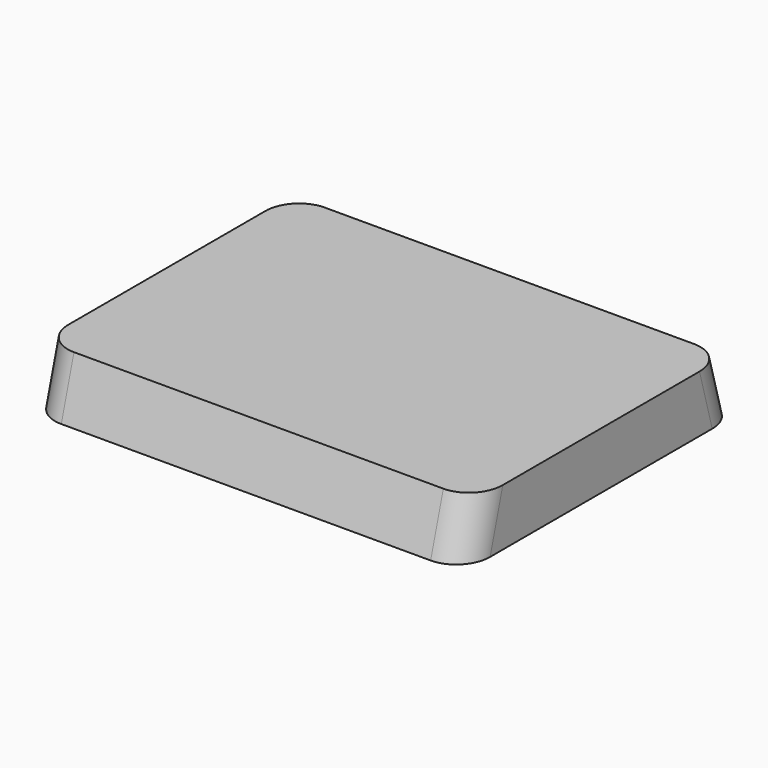
from build123d import *

# Parameters (mm, degrees)
F2_DEPTH = 26.75
F3_R     = 4


with BuildPart() as f2:
    # F1 (on Right) → F2 (new body, symmetric)
    with BuildSketch(Plane.YZ):
        Polygon((-19.3, 7), (-21.25, 0), (21.25, 0), (19.3, 7), align=None)
    extrude(amount=F2_DEPTH, both=True)

    # F3
    f3_edges = [f2.edges().sort_by_distance(p)[0] for p in [
        (-26.75, -20.275, 3.5),
        (26.75, -20.275, 3.5),
        (26.75, 20.275, 3.5),
        (-26.75, 20.275, 3.5),
    ]]
    fillet(f3_edges, radius=F3_R)


solid = f2.part
